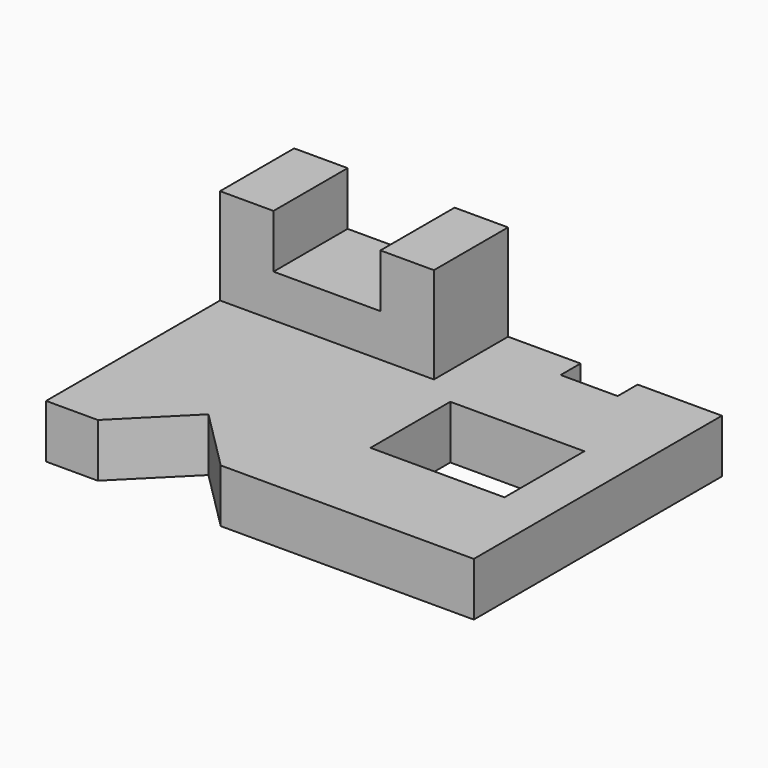
from build123d import *

# Parameters (mm, degrees)
F0_W     = 37.6
F0_H     = 28
F0_W_2   = 15
F0_H_2   = 26
F0_W_3   = 30
F1_DEPTH = 42
F2_W     = 30
F2_H     = 15
F2_W_2   = 60
F2_H_2   = 27
F3_DEPTH = 87.001
F4_W     = 61
F4_H     = 27
F5_DEPTH = 120.001


with BuildPart() as f1:
    # F0 (on Top) → F1 (new body)
    with BuildSketch(Plane.XY):
        Polygon((-373.474174, 103.589958), (-373.474174, 42.589958), (-358.974174, 42.589958), (-341.724174, 59.839958), (-324.474174, 42.589958), (-253.474174, 42.589958), (-253.474174, 129.589958), (-277.1233, 129.589958), (-277.1233, 122.589958), (-293.1233, 122.589958), (-293.1233, 129.589958), (-313.474174, 129.589958), (-313.474174, 103.589958), (-328.474174, 103.589958), (-358.474174, 103.589958), align=None)
        with Locations((-285.274174, 83.589958)):
            Rectangle(F0_W, F0_H, mode=Mode.SUBTRACT)
        with Locations((-365.974174, 116.589958)):
            Rectangle(F0_W_2, F0_H_2)
        with Locations((-343.474174, 116.589958)):
            Rectangle(F0_W_3, F0_H_2)
        with Locations((-320.974174, 116.589958)):
            Rectangle(F0_W_2, F0_H_2)
    extrude(amount=F1_DEPTH)

    # F2 (on face) → F3 (cut, through all)
    with BuildSketch(Plane.XZ.offset(-42.589958)):
        with Locations((-343.474174, 34.5)):
            Rectangle(F2_W, F2_H)
        with Locations((-283.474174, 28.5)):
            Rectangle(F2_W_2, F2_H_2)
    extrude(amount=-F3_DEPTH, mode=Mode.SUBTRACT)

    # F4 (on face) → F5 (cut, through all)
    with BuildSketch(Plane.YZ.offset(-253.474174)):
        with Locations((73.089958, 28.5)):
            Rectangle(F4_W, F4_H)
    extrude(amount=-F5_DEPTH, mode=Mode.SUBTRACT)


solid = f1.part
